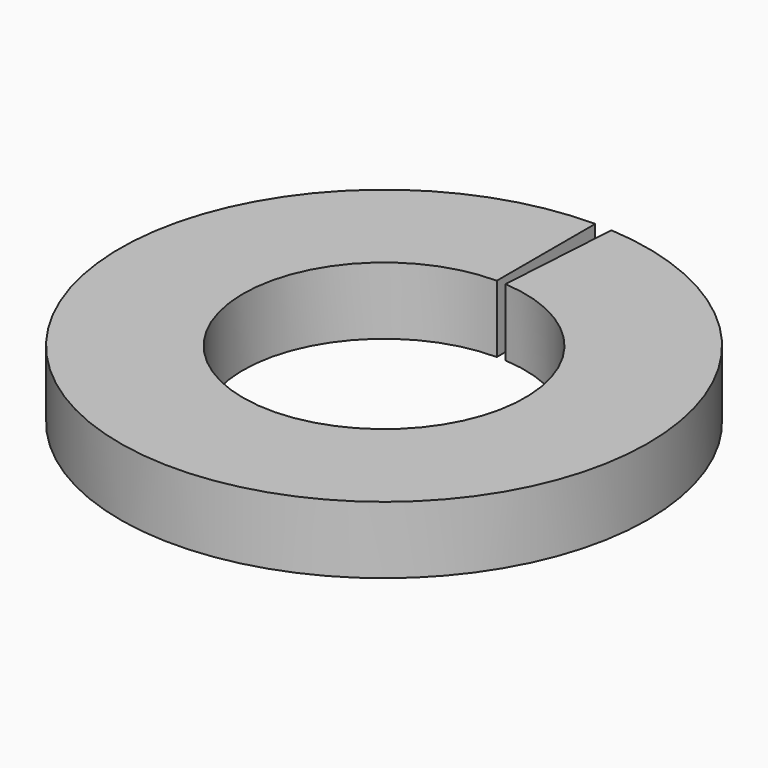
from build123d import *

# Parameters (mm, degrees)
F1_DEPTH = 1.5748


with BuildPart() as f1:
    # F0 (on Top) → F1 (new body)
    with BuildSketch(Plane.XY):
        with BuildLine():
            ThreePointArc((0.207344, 3.295484), (-0.103723, -3.300371), (0, 3.302))
            add(Edge.make_bspline(
                [(0, 6.1849), (0, 5.864578), (0, 5.223933), (0, 4.262967), (0, 3.622322), (0, 3.302)],
                knots=[0, 0, 0, 0, 0.960967, 1.921933, 2.8829, 2.8829, 2.8829, 2.8829], degree=3))
            ThreePointArc((0, 6.1849), (-0.194282, -6.181848), (0.388372, 6.172694))
            add(Edge.make_bspline(
                [(0.207344, 3.295484), (0.227458, 3.615174), (0.267687, 4.254554), (0.328029, 5.213624), (0.368257, 5.853004), (0.388372, 6.172694)],
                knots=[0, 0, 0, 0, 0.960967, 1.921933, 2.8829, 2.8829, 2.8829, 2.8829], degree=3))
        make_face()
    extrude(amount=F1_DEPTH)


solid = f1.part
